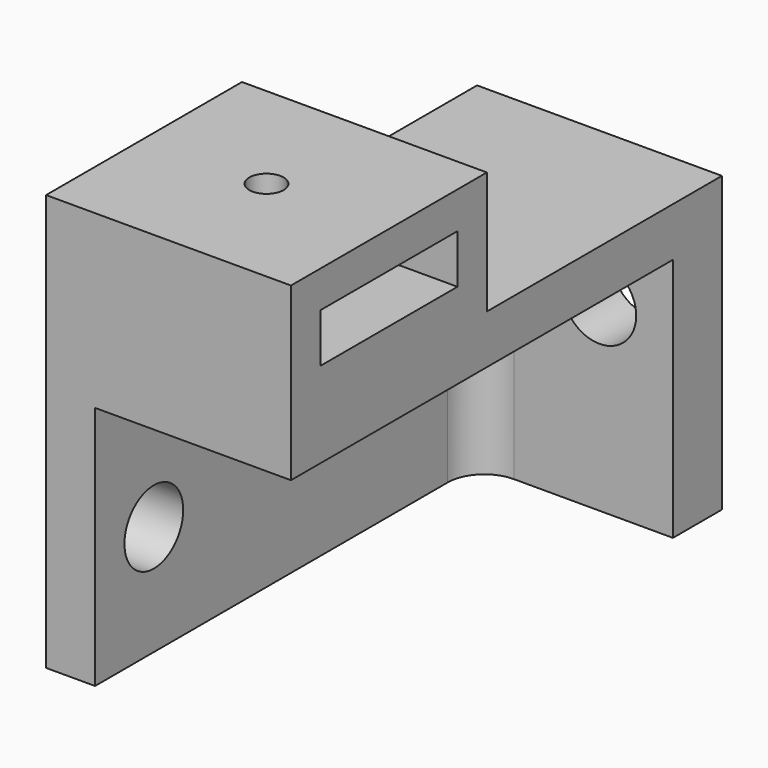
from build123d import *

# Parameters (mm, degrees)
PAD009_DEPTH    = 20
SKETCH023_R     = 3
POCKET008_DEPTH = 44.001
SKETCH024_R     = 3
POCKET009_DEPTH = 5
SKETCH026_W     = 44
SKETCH026_H     = 4
PAD011_DEPTH    = 20
SKETCH027_W     = 20
SKETCH027_H     = 10
SKETCH027_W_2   = 14
SKETCH027_H_2   = 4
PAD012_DEPTH    = 20
SKETCH028_R     = 1.4
POCKET010_DEPTH = 3


with BuildPart() as part:
    # Sketch021 → Pad009 (new body)
    with BuildSketch(Plane.XY):
        with BuildLine():
            Line((0, -44), (0, 0))
            Line((0, 0), (20, 0))
            Line((20, 0), (20, -5))
            Line((20, -5), (7, -5))
            ThreePointArc((7, -5), (4.87868, -5.87868), (4, -8))
            Line((4, -8), (4, -44))
            Line((4, -44), (0, -44))
        make_face()
    extrude(amount=PAD009_DEPTH)

    # Sketch023 → Pocket008 (cut, through all)
    with BuildSketch(Plane.XZ):
        with Locations((14, 15)):
            Circle(SKETCH023_R)
    extrude(amount=POCKET008_DEPTH, mode=Mode.SUBTRACT)

    # Sketch024 → Pocket009 (cut)
    with BuildSketch(Plane.YZ):
        with Locations((-38, 9)):
            Circle(SKETCH024_R)
    extrude(amount=POCKET009_DEPTH, mode=Mode.SUBTRACT)

    # Sketch026 → Pad011 (join)
    with BuildSketch(Plane.YZ):
        with Locations((-22, 22)):
            Rectangle(SKETCH026_W, SKETCH026_H)
    extrude(amount=PAD011_DEPTH)

    # Sketch027 → Pad012 (join)
    with BuildSketch(Plane.YZ):
        with Locations((-34, 29)):
            Rectangle(SKETCH027_W, SKETCH027_H)
        with Locations((-34, 29)):
            Rectangle(SKETCH027_W_2, SKETCH027_H_2, mode=Mode.SUBTRACT)
    extrude(amount=PAD012_DEPTH)

    # Sketch028 → Pocket010 (cut)
    with BuildSketch(Plane.XY.offset(34)):
        with Locations((10, -34)):
            Circle(SKETCH028_R)
    extrude(amount=-POCKET010_DEPTH, mode=Mode.SUBTRACT)


solid = part.part
